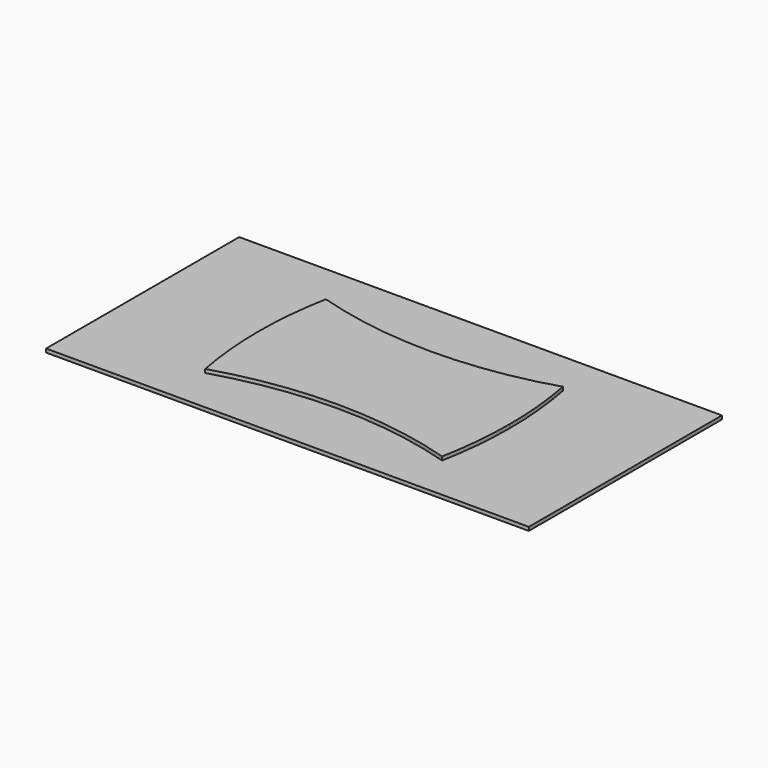
from build123d import *

# Parameters (mm, degrees)
F1_DEPTH = 18
F2_W     = 2400
F2_H     = 1200
F3_DEPTH = 18


with BuildPart() as f1:
    # F0 (on Top) → F1 (new body)
    with BuildSketch(Plane.XY):
        with BuildLine():
            ThreePointArc((588.854787, 375.198188), (0, 286.54589), (-588.854787, 375.198188))
            ThreePointArc((-588.854787, 375.198188), (-615.466475, 188.437352), (-624.363422, 0))
            ThreePointArc((-624.363422, 0), (-615.466475, -188.437352), (-588.854787, -375.198188))
            ThreePointArc((-588.854787, -375.198188), (0, -286.54589), (588.854787, -375.198188))
            ThreePointArc((588.854787, -375.198188), (615.466475, -188.437352), (624.363422, 0))
            ThreePointArc((624.363422, 0), (615.466475, 188.437352), (588.854787, 375.198188))
        make_face()
    extrude(amount=F1_DEPTH)


with BuildPart() as f3:
    # F2 (on Top) → F3 (new body)
    with BuildSketch(Plane.XY):
        Rectangle(F2_W, F2_H)
    extrude(amount=-F3_DEPTH)


solid = Compound([f1.part, f3.part])
